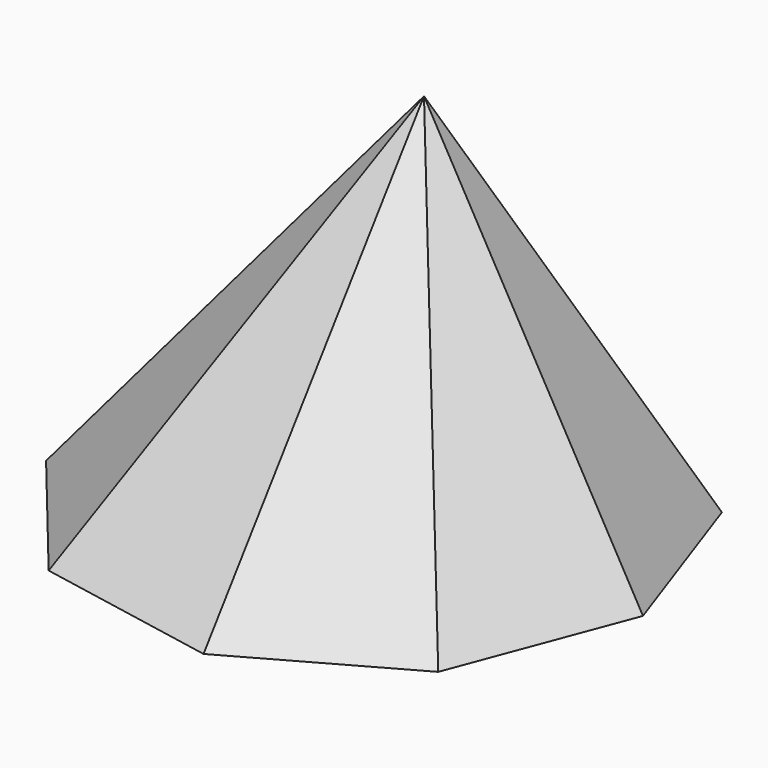
from build123d import *


with BuildPart() as f3:
    # F0 (on Top) → F3 section 0
    with BuildSketch(Plane.XY, mode=Mode.PRIVATE) as f3_s0:
        Polygon((12.783824, -78.240557), (60.085038, -51.71846), (79.271795, -0.996721), (61.366398, 50.191394), (14.746982, 77.894399), (-38.772711, 69.149749), (-74.150222, 28.049162), (-74.832019, -26.175939), (-40.499083, -68.153027), align=None)
    loft([f3_s0.sketch, Vertex(0, 18.189149, 100)])


solid = f3.part
